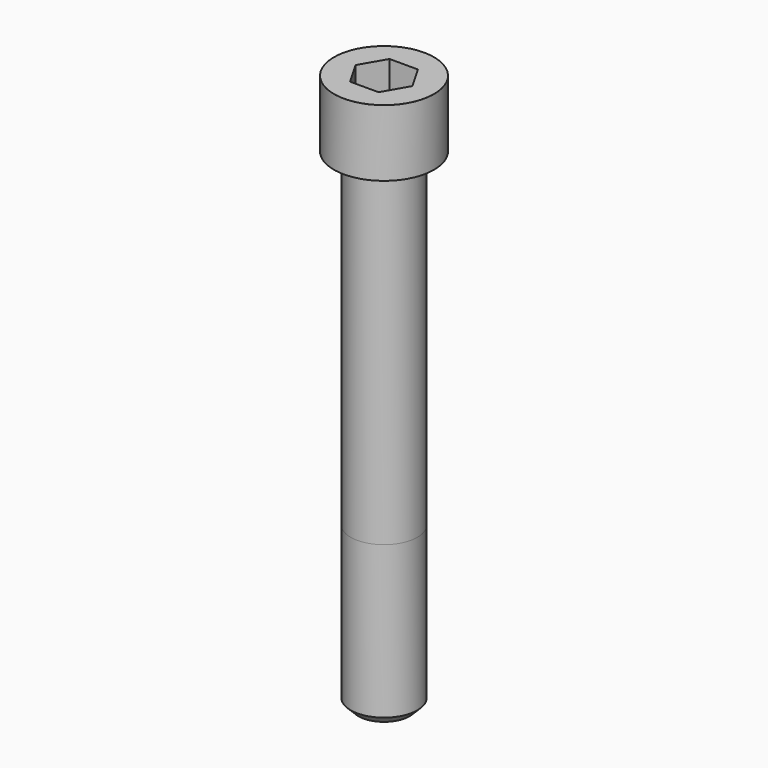
from build123d import *

# Parameters (mm, degrees)
POCKET_DEPTH = 22.15


with BuildPart() as part:
    # Sketch → Revolve (revolve)
    with BuildSketch(Plane.YZ):
        with BuildLine():
            Line((14.999, 0), (22.5, 0))
            Line((22.5, 0), (22.5, 29.97229))
            ThreePointArc((22.5, 29.97229), (22.491884, 29.991884), (22.47229, 30))
            Line((22.47229, 30), (0, 30))
            Line((0, -220), (0, 30))
            Line((11.5, -220), (0, -220))
            Line((15, -216.5), (11.5, -220))
            Line((15, -148), (15, -216.5))
            Line((14.999, 0), (15, -148))
        make_face()
    revolve(axis=Axis((0, 0, 0), (0, 0, 1)))

    # Sketch001 → Pocket (cut)
    with BuildSketch(Plane.XY.offset(30)):
        Polygon((12.788308, 0), (6.394154, 11.075), (-6.394154, 11.075), (-12.788308, 0), (-6.394154, -11.075), (6.394154, -11.075), align=None)
    extrude(amount=-POCKET_DEPTH, mode=Mode.SUBTRACT)


solid = part.part
